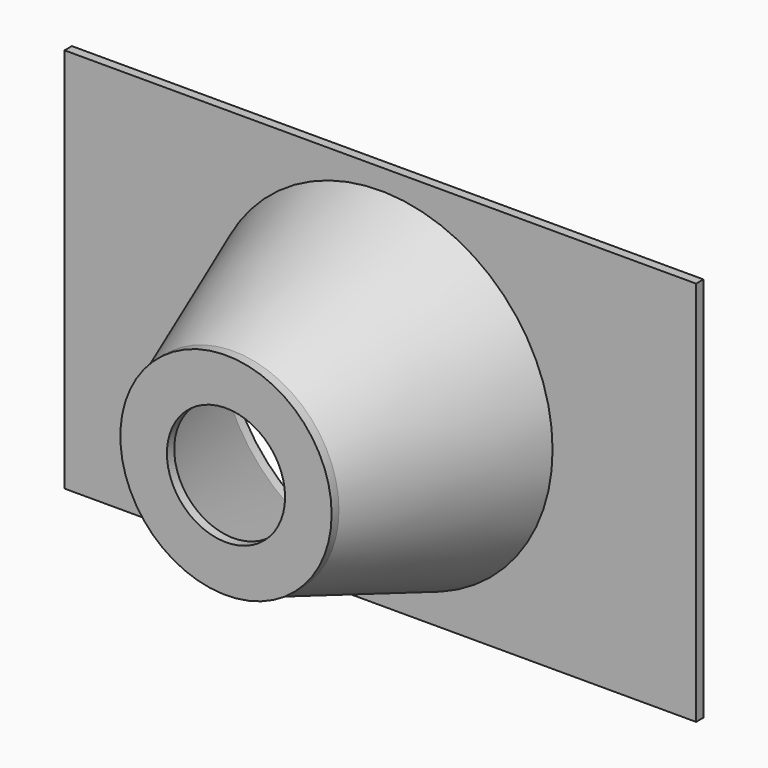
from build123d import *

# Parameters (mm, degrees)
F0_W      = 137.5
F0_H      = 84
F0_R      = 35.5
F1_DEPTH  = 2
F2_R      = 37.5
F4_R      = 23
F6_R      = 35.5
F7_R      = 21
F9_R      = 23
F9_R_2    = 12.864396
F10_DEPTH = 2


with BuildPart() as f1:
    # F0 (on Front) → F1 (new body)
    with BuildSketch(Plane.XZ):
        Rectangle(F0_W, F0_H)
        Circle(F0_R, mode=Mode.SUBTRACT)
    extrude(amount=F1_DEPTH)

    # F2 (on face) → F5 section 0
    with BuildSketch(Plane.XZ.offset(2)):
        Circle(F2_R)
    # F4 (on offset) → F5 section 1
    with BuildSketch(Plane.XZ.offset(42)):
        Circle(F4_R)
    loft()

    # F6 (on face) → F8 section 0
    with BuildSketch(Plane.XZ.offset(2)):
        Circle(F6_R)
    # F7 (on face) → F8 section 1
    with BuildSketch(Plane.XZ.offset(42)):
        Circle(F7_R)
    loft(mode=Mode.SUBTRACT)

    # F9 (on offset) → F10 (join)
    with BuildSketch(Plane.XZ.offset(42)):
        Circle(F9_R)
        Circle(F9_R_2, mode=Mode.SUBTRACT)
    extrude(amount=F10_DEPTH)


solid = f1.part
